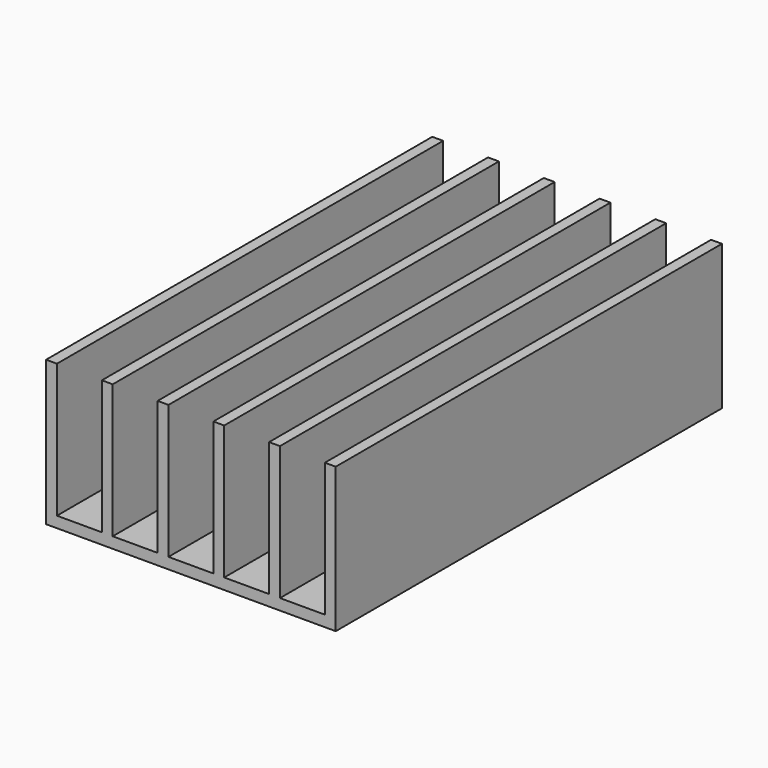
from build123d import *

# Parameters (mm, degrees)
F1_DEPTH = 50


with BuildPart() as f1:
    # F0 (on Front) → F1 (new body)
    with BuildSketch(Plane.XZ):
        Polygon((-15, -7.5), (15, -7.5), (15, 7.5), (13.875674, 7.5), (13.875674, -6.356919), (9.224865, -6.356919), (9.224865, 7.5), (8.10054, 7.5), (8.10054, -6.356919), (3.44973, -6.356919), (3.44973, 7.5), (2.325405, 7.5), (2.325405, -6.356919), (-2.325405, -6.356919), (-2.325405, 7.5), (-3.44973, 7.5), (-3.44973, -6.356919), (-8.10054, -6.356919), (-8.10054, 7.5), (-9.224865, 7.5), (-9.224865, -6.356919), (-13.875674, -6.356919), (-13.875674, 7.5), (-15, 7.5), align=None)
    extrude(amount=F1_DEPTH)


solid = f1.part
